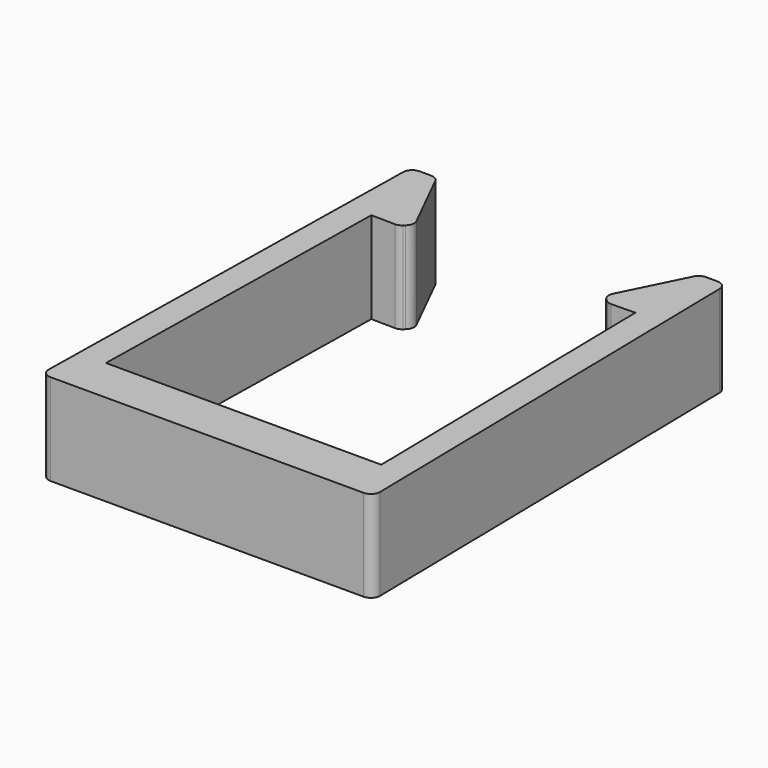
from build123d import *

# Parameters (mm, degrees)
F1_DEPTH = 10
F2_R     = 1


with BuildPart() as f1:
    # F0 (on Top) → F1 (new body)
    with BuildSketch(Plane.XY):
        Polygon((15.05, -21.257294), (-15.05, -21.257294), (-14.43044, 14.237299), (-11.430896, 14.184942), (-10.41038, 15.110668), (-14.40333, 23.142999), (-17.275447, 23.142999), (-18.137732, -26.257294), (18.137732, -26.257294), (17.275447, 23.142999), (14.40333, 23.142999), (10.41038, 15.110668), (11.430896, 14.184942), (14.43044, 14.237299), align=None)
    extrude(amount=F1_DEPTH)

    # F2
    f2_edges = [f1.edges().sort_by_distance(p)[0] for p in [
        (-10.41038, 15.110668, 5),
        (10.41038, 15.110668, 5),
        (-11.430896, 14.184942, 5),
        (11.430896, 14.184942, 5),
        (-17.275447, 23.142999, 5),
        (-14.40333, 23.142999, 5),
        (-18.137732, -26.257294, 5),
        (18.137732, -26.257294, 5),
        (17.275447, 23.142999, 5),
        (14.40333, 23.142999, 5),
    ]]
    fillet(f2_edges, radius=F2_R)


solid = f1.part
